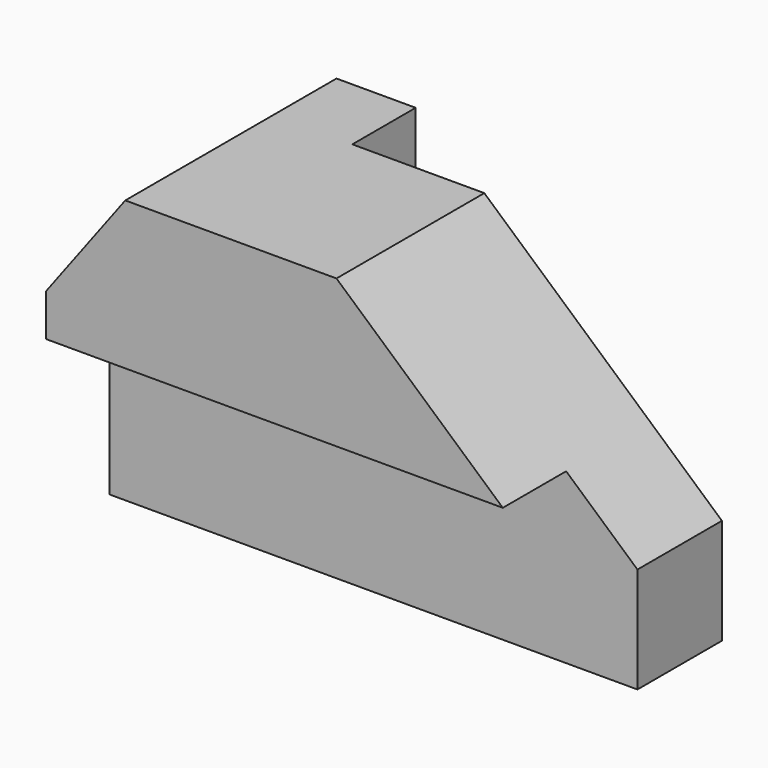
from build123d import *

# Parameters (mm, degrees)
F0_W     = 100
F0_H     = 50
F1_DEPTH = 60
F2_W     = 15
F2_H     = 32
F3_DEPTH = 100.001
F5_DEPTH = 50.001
F6_W     = 70
F6_H     = 15
F7_DEPTH = 60.001


with BuildPart() as f1:
    # F0 (on Top) → F1 (new body)
    with BuildSketch(Plane.XY):
        with Locations((50, 25)):
            Rectangle(F0_W, F0_H)
    extrude(amount=F1_DEPTH)

    # F2 (on face) → F3 (cut, through all)
    with BuildSketch(Plane.YZ.offset(100)):
        with Locations((7.5, 16)):
            Rectangle(F2_W, F2_H)
    extrude(amount=-F3_DEPTH, mode=Mode.SUBTRACT)

    # F4 (on face) → F5 (cut, through all)
    with BuildSketch(Plane(origin=(0, 50, 0), x_dir=(-1, 0, 0), z_dir=(0, 1, 0))):
        Polygon((0, 60), (-15, 60), (0, 40), align=None)
        Polygon((-100, 20), (-55, 60), (-100, 60), align=None)
    extrude(amount=-F5_DEPTH, mode=Mode.SUBTRACT)

    # F6 (on face) → F7 (cut, through all)
    with BuildSketch(Plane(origin=(0, 0, 0), x_dir=(1, 0, 0), z_dir=(0, 0, -1))):
        with Locations((65, -42.5)):
            Rectangle(F6_W, F6_H)
    extrude(amount=-F7_DEPTH, mode=Mode.SUBTRACT)


solid = f1.part
